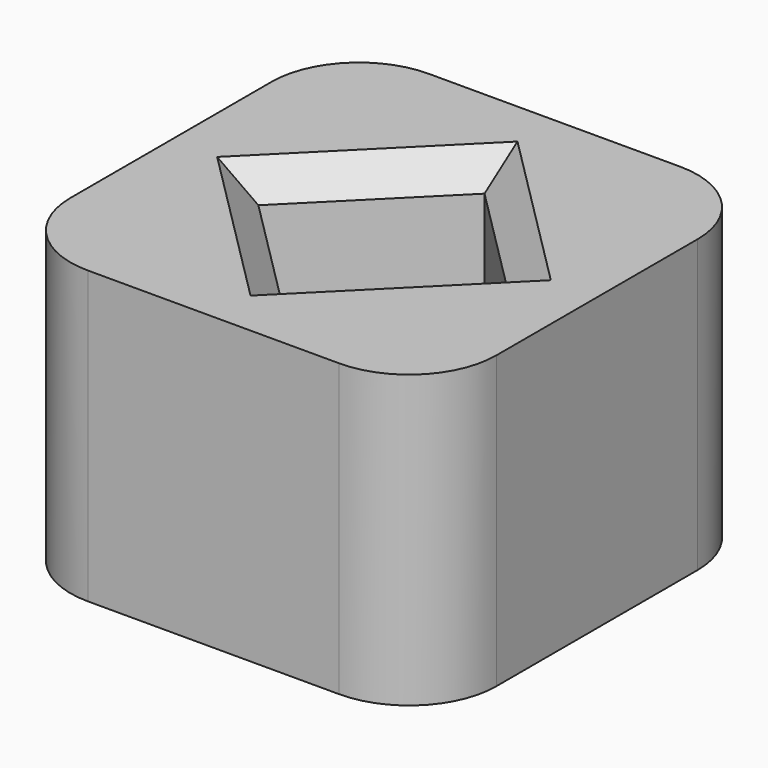
from build123d import *

# Parameters (mm, degrees)
F1_DEPTH = 10
F2_R     = 3
F3_SIZE  = 1


with BuildPart() as f1:
    # F0 (on Top) → F1 (new body)
    with BuildSketch(Plane.XY):
        Polygon((0, 14.626703), (0, 7.313351), (3, 7.313351), (7.313351, 11.626703), (7.313351, 14.626703), align=None)
        Polygon((0, 7.313351), (0, 0), (7.313351, 0), (7.313351, 3), (3, 7.313351), align=None)
        Polygon((7.313351, 3), (7.313351, 0), (14.626703, 0), (14.626703, 7.313351), (11.626703, 7.313351), align=None)
        Polygon((11.626703, 7.313351), (14.626703, 7.313351), (14.626703, 14.626703), (7.313351, 14.626703), (7.313351, 11.626703), align=None)
    extrude(amount=F1_DEPTH)

    # F2
    f2_edges = [f1.edges().sort_by_distance(p)[0] for p in [
        (0, 0, 5),
        (0, 14.626703, 5),
        (14.626703, 0, 5),
        (14.626703, 14.626703, 5),
    ]]
    fillet(f2_edges, radius=F2_R)

    # F3
    f3_edges = [f1.edges().sort_by_distance(p)[0] for p in [
        (5.156676, 9.470027, 10),
        (5.156676, 5.156676, 10),
        (9.470027, 9.470027, 10),
        (9.470027, 5.156676, 10),
    ]]
    chamfer(f3_edges, length=F3_SIZE)


solid = f1.part
